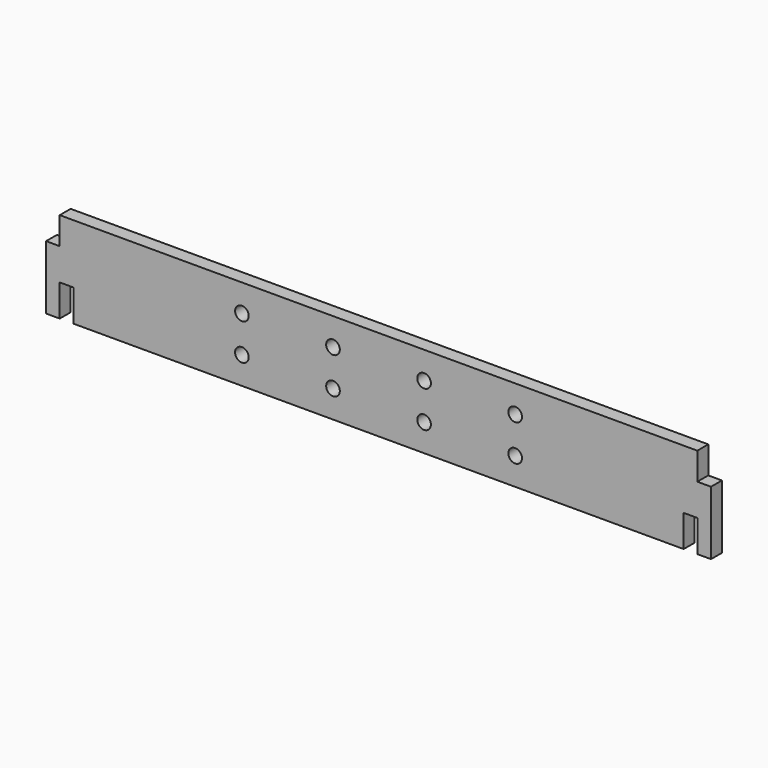
from build123d import *

# Parameters (mm, degrees)
F0_R     = 1.5
F1_DEPTH = 3


with BuildPart() as f1:
    # F0 (on Front) → F1 (new body)
    with BuildSketch(Plane.XZ):
        Polygon((70, 0), (0, 0), (-70, 0), (-70, -6), (-73, -6), (-73, -20), (-70, -20), (-70, -13), (-67, -13), (-67, -20), (0, -20), (67, -20), (67, -13), (70, -13), (70, -20), (73, -20), (73, -6), (70, -6), align=None)
        with Locations((-30, -14)):
            Circle(F0_R, mode=Mode.SUBTRACT)
        with Locations((-10, -14)):
            Circle(F0_R, mode=Mode.SUBTRACT)
        with Locations((10, -14)):
            Circle(F0_R, mode=Mode.SUBTRACT)
        with Locations((30, -14)):
            Circle(F0_R, mode=Mode.SUBTRACT)
        with Locations((-30, -6)):
            Circle(F0_R, mode=Mode.SUBTRACT)
        with Locations((-10, -6)):
            Circle(F0_R, mode=Mode.SUBTRACT)
        with Locations((10, -6)):
            Circle(F0_R, mode=Mode.SUBTRACT)
        with Locations((30, -6)):
            Circle(F0_R, mode=Mode.SUBTRACT)
    extrude(amount=F1_DEPTH)


solid = f1.part
